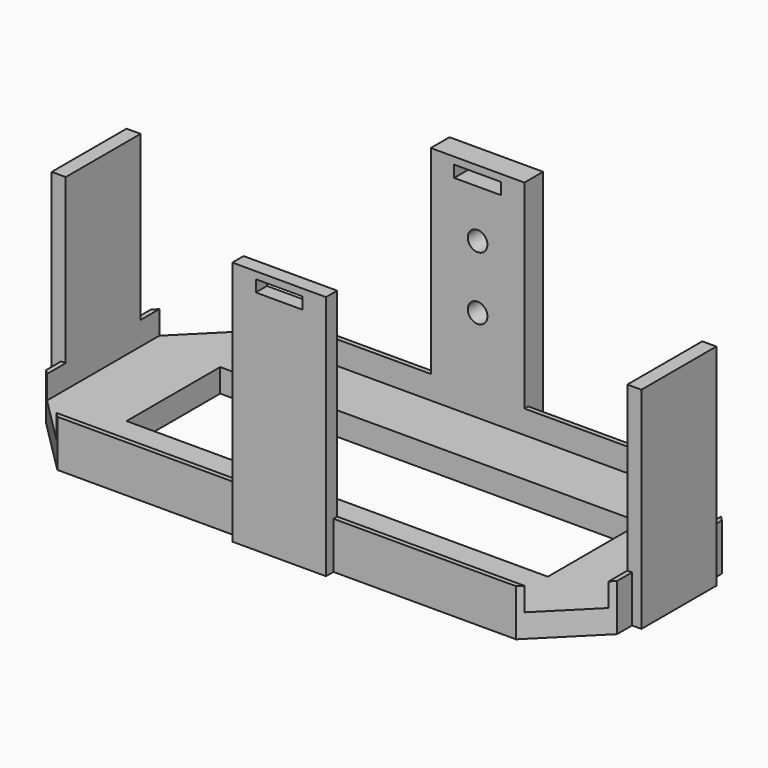
from build123d import *

# Parameters (mm, degrees)
F0_W          = 20.0000000001
F0_H          = 40
F0_R          = 2.1
F0_W_2        = 20
F0_H_2        = 5
F1_DEPTH      = 5
F2_START      = 5
F0_W_3        = 50
F2_DEPTH      = 50
F3_START      = 55
F3_DEPTH      = 3
F4_W          = 20
F4_H          = 40
F4_H_2        = 5
F5_DEPTH      = 3
F6_START      = -123
F5_FACE_W     = 20
F5_FACE_H     = 45
F6_DEPTH      = 3
F7_W          = 122
F7_H          = 52
F8_DEPTH      = 5
F8_DEPTH_BACK = 5
F9_DEPTH      = 7.5
F10_W         = 10
F10_H         = 2.5
F11_DEPTH     = 58
F12_W         = 90
F12_H         = 25
F13_DEPTH     = 10


with BuildPart() as f1:
    # F0 (on Front) → F1 (new body)
    with BuildSketch(Plane.XZ):
        with Locations((117.7309190904, 7.2080208344)):
            Rectangle(F0_W, F0_H)
        with Locations((117.7309190904, 6.9580208345)):
            Circle(F0_R, mode=Mode.SUBTRACT)
        with Locations((117.7309190904, 20.4580208344)):
            Circle(F0_R, mode=Mode.SUBTRACT)
        with Locations((117.7309190904, -15.2919791656)):
            Rectangle(F0_W_2, F0_H_2)
    extrude(amount=F1_DEPTH)

    # F0 (on Front) → F2 (join)
    with BuildSketch(Plane.XZ.offset(F2_START)):
        with Locations((82.7309190904, -15.2919791656)):
            Rectangle(F0_W_3, F0_H_2)
        with Locations((152.7309190904, -15.2919791656)):
            Rectangle(F0_W_3, F0_H_2)
        with Locations((117.7309190904, -15.2919791656)):
            Rectangle(F0_W_2, F0_H_2)
    extrude(amount=F2_DEPTH)

    # F0 (on Front) → F3 (join)
    with BuildSketch(Plane.XZ.offset(F3_START)):
        with Locations((117.7309190904, 7.2080208344)):
            Rectangle(F0_W, F0_H)
        with Locations((117.7309190904, 6.9580208345)):
            Circle(F0_R, mode=Mode.SUBTRACT)
        with Locations((117.7309190904, 20.4580208344)):
            Circle(F0_R, mode=Mode.SUBTRACT)
        with Locations((117.7309190904, -15.2919791656)):
            Rectangle(F0_W_2, F0_H_2)
        with Locations((117.7309190904, 20.4580208344)):
            Circle(F0_R)
        with Locations((117.7309190904, 6.9580208345)):
            Circle(F0_R)
    extrude(amount=F3_DEPTH)

    # F4 (on face) → F5 (join)
    with BuildSketch(Plane(origin=(57.7309190904, 0, 0), x_dir=(0, -1, 0), z_dir=(-1, 0, 0))):
        with Locations((30, 7.2080208344)):
            Rectangle(F4_W, F4_H)
        with Locations((30, -15.2919791656)):
            Rectangle(F4_W, F4_H_2)
    extrude(amount=F5_DEPTH)

    # F5_face (on face) → F6 (join)
    with BuildSketch(Plane(origin=(54.7309190904, -30, 4.7080208344), x_dir=(0, -1, 0), z_dir=(-1, 0, 0)).offset(F6_START)):
        Rectangle(F5_FACE_W, F5_FACE_H)
    extrude(amount=-F6_DEPTH)

    # F7 (on face) → F8 (join, two sides)
    with BuildSketch(Plane.XY.offset(-12.7919791656)) as f8_sk:
        with Locations((117.7309190904, -30)):
            Rectangle(F7_W, F7_H)
        Polygon((177.7309190904, -5), (177.7309190904, -20), (177.7309190904, -40), (177.7309190904, -55), (127.7309190904, -55), (107.7309190904, -55), (57.7309190904, -55), (57.7309190904, -40), (57.7309190904, -20), (57.7309190904, -5), (107.7309190904, -5), (127.7309190904, -5), align=None, mode=Mode.SUBTRACT)
    extrude(amount=F8_DEPTH)
    extrude(f8_sk.sketch, amount=-F8_DEPTH_BACK)

    # F9 (add): faces of the model
    f9_faces = [f1.faces().sort_by_distance(p)[0] for p in [
        (117.7309190904, -2.5, 27.2080208344),
        (117.7309190904, -56.5, 27.2080208344),
    ]]
    extrude(f9_faces, amount=F9_DEPTH)

    # F10 (on face) → F11 (cut, through all)
    with BuildSketch(Plane(origin=(0, 0, 0), x_dir=(-1, 0, 0), z_dir=(0, 1, 0))):
        with Locations((-117.7309190904, 31.9580208344)):
            Rectangle(F10_W, F10_H)
    extrude(amount=-F11_DEPTH, mode=Mode.SUBTRACT)

    # F12 (on face) → F13 (cut, through all)
    with BuildSketch(Plane(origin=(0, 0, -17.7919791656), x_dir=(1, 0, 0), z_dir=(0, 0, -1))):
        Polygon((56.7309190904, 4), (68.7309190904, 4), (56.7309190904, 16), align=None)
        Polygon((56.7309190904, 56), (56.7309190904, 44), (68.7309190904, 56), align=None)
        Polygon((166.7309190904, 56), (178.7309190904, 44), (178.7309190904, 56), align=None)
        Polygon((178.7309190904, 16), (166.7309190904, 4), (178.7309190904, 4), align=None)
        with Locations((117.7309190904, 30)):
            Rectangle(F12_W, F12_H)
    extrude(amount=-F13_DEPTH, mode=Mode.SUBTRACT)


solid = f1.part
